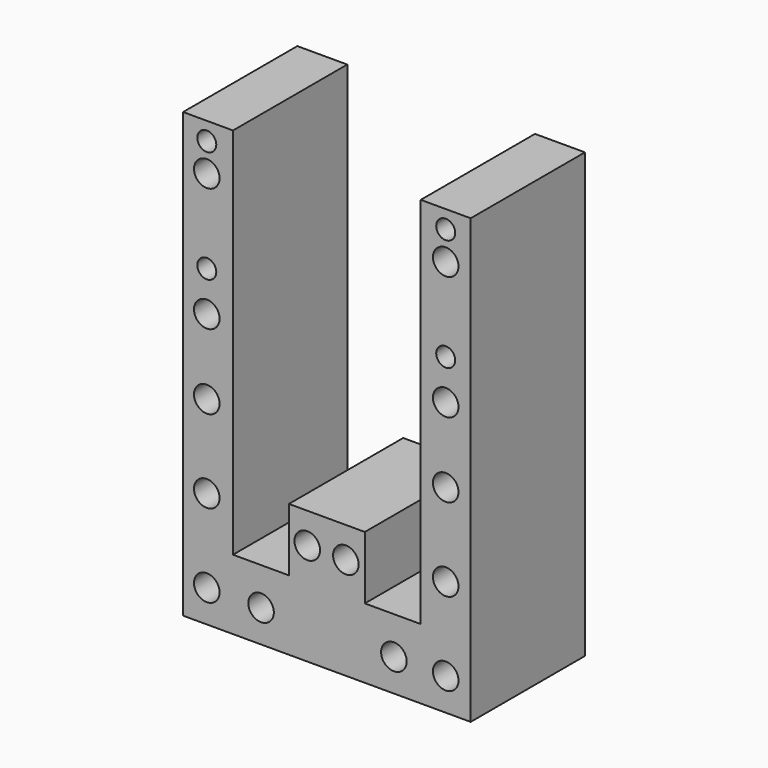
from build123d import *

# Parameters (mm, degrees)
F0_R     = 3.2512
F0_R_2   = 2.413
F1_DEPTH = 18.161


with BuildPart() as f1:
    # F0 (on Front) → F1 (new body, symmetric)
    with BuildSketch(Plane.XZ):
        Polygon((-23.3536, 56.482241), (-36.0536, 56.482241), (-36.0536, -56.293759), (37.0984, -56.293759), (37.0984, 56.482241), (24.3984, 56.482241), (24.3984, -38.513759), (10.1744, -38.513759), (10.1744, -22.511759), (-9.1296, -22.511759), (-9.1296, -38.513759), (-23.3536, -38.513759), align=None)
        with Locations((-30.022221, -48.062544)):
            Circle(F0_R, mode=Mode.SUBTRACT)
        with Locations((-16.222711, -48.062544)):
            Circle(F0_R, mode=Mode.SUBTRACT)
        with Locations((-4.467035, -30.334959)):
            Circle(F0_R, mode=Mode.SUBTRACT)
        with Locations((-30.022221, -26.952723)):
            Circle(F0_R, mode=Mode.SUBTRACT)
        with Locations((-30.022221, -5.842898)):
            Circle(F0_R, mode=Mode.SUBTRACT)
        with Locations((17.563765, -48.062544)):
            Circle(F0_R, mode=Mode.SUBTRACT)
        with Locations((5.348405, -30.334959)):
            Circle(F0_R, mode=Mode.SUBTRACT)
        with Locations((30.7484, -48.062544)):
            Circle(F0_R, mode=Mode.SUBTRACT)
        with Locations((30.7484, -26.952723)):
            Circle(F0_R, mode=Mode.SUBTRACT)
        with Locations((30.7484, -5.842898)):
            Circle(F0_R, mode=Mode.SUBTRACT)
        with Locations((-30.022221, 13.207102)):
            Circle(F0_R, mode=Mode.SUBTRACT)
        with Locations((-30.022221, 23.386041)):
            Circle(F0_R_2, mode=Mode.SUBTRACT)
        with Locations((-30.022221, 44.671241)):
            Circle(F0_R, mode=Mode.SUBTRACT)
        with Locations((-30.022221, 51.910241)):
            Circle(F0_R_2, mode=Mode.SUBTRACT)
        with Locations((30.7484, 13.207102)):
            Circle(F0_R, mode=Mode.SUBTRACT)
        with Locations((30.7484, 23.386041)):
            Circle(F0_R_2, mode=Mode.SUBTRACT)
        with Locations((30.7484, 44.671241)):
            Circle(F0_R, mode=Mode.SUBTRACT)
        with Locations((30.7484, 51.910241)):
            Circle(F0_R_2, mode=Mode.SUBTRACT)
    extrude(amount=F1_DEPTH, both=True)


solid = f1.part
